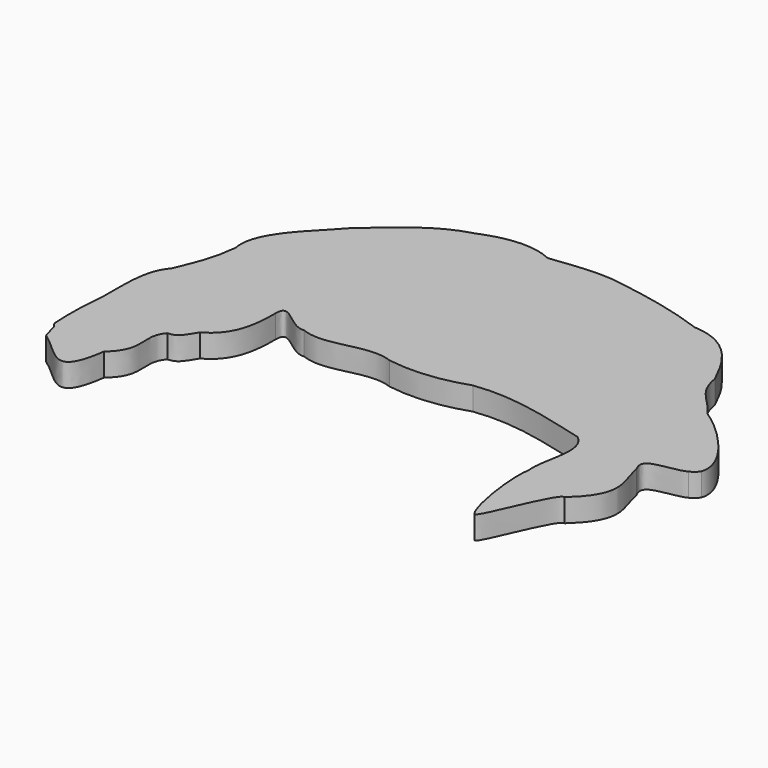
from build123d import *

# Parameters (mm, degrees)
F1_DEPTH = 2.5


with BuildPart() as f1:
    # F0 (on Top) → F1 (new body)
    with BuildSketch(Plane.XY):
        with BuildLine():
            add(Edge.make_bspline(
                [(-25.6257737843, 29.8916869719), (-25.8873034064, 27.5028125175), (-26.3476858106, 26.3349166155), (-27.2098956588, 24.2340467342)],
                knots=[0, 0, 0, 0, 0.906224542, 0.906224542, 0.906224542, 0.906224542], degree=3))
            add(Edge.make_bspline(
                [(-27.2098956588, 24.2340467342), (-19.7568631721, 31.0778006363), (-9.9904411425, 34.8972392423), (0.1697760545, 34.8972392423)],
                knots=[0.0536881033, 0.0536881033, 0.0536881033, 0.0536881033, 1, 1, 1, 1], degree=3))
            add(Edge.make_bspline(
                [(0.1697760545, 34.8972392423), (10.9064226016, 34.8972392423), (21.2033250388, 30.6321223941), (28.7952806224, 23.0401668105)],
                knots=[0, 0, 0, 0, 1, 1, 1, 1], degree=3))
            add(Edge.make_bspline(
                [(28.7952806224, 23.0401668105), (29.2036402391, 22.6318071461), (29.6023746478, 22.2156215356), (29.9913378332, 21.7919624913)],
                knots=[0, 0, 0, 0, 0.0537884623, 0.0537884623, 0.0537884623, 0.0537884623], degree=3))
            add(Edge.make_bspline(
                [(29.9913378332, 21.7919624913), (30.3332701533, 21.9612258157), (30.6193747535, 22.1863755662), (30.8054165504, 22.4991043824)],
                knots=[0.8351689985, 0.8351689985, 0.8351689985, 0.8351689985, 1, 1, 1, 1], degree=3))
            add(Edge.make_bspline(
                [(30.8054165504, 22.4991043824), (31.6957144217, 25.0845200026), (26.7139510097, 29.7791972617), (24.6549925526, 31.0400298102)],
                knots=[0, 0, 0, 0, 1, 1, 1, 1], degree=3))
            add(Edge.make_bspline(
                [(24.6549925526, 31.0400298102), (23.1179127612, 33.2059942426), (21.5435347067, 33.6748327354), (21.0984451745, 36.465856937)],
                knots=[0, 0, 0, 0, 1, 1, 1, 1], degree=3))
            add(Edge.make_bspline(
                [(21.0984451745, 36.465856937), (19.8331981529, 39.1149778628), (18.0484592424, 42.6006720177), (13.8889900701, 42.7717326263)],
                knots=[0, 0, 0, 0, 1, 1, 1, 1], degree=3))
            add(Edge.make_bspline(
                [(13.8889900701, 42.7717326263), (10.7894802938, 43.9150731637), (7.3893572276, 44.6367175954), (4.1607868433, 45.1314240668)],
                knots=[0, 0, 0, 0, 1, 1, 1, 1], degree=3))
            add(Edge.make_bspline(
                [(4.1607868433, 45.1314240668), (1.5282767132, 45.665729576), (-1.0791917665, 45.2263791247), (-3.7920543494, 44.9209612497)],
                knots=[0, 0, 0, 0, 1, 1, 1, 1], degree=3))
            add(Edge.make_bspline(
                [(-3.7920543494, 44.9209612497), (-6.2944709608, 46.0858599135), (-8.9868296064, 45.6211947336), (-11.4372380688, 44.6089132422)],
                knots=[0, 0, 0, 0, 1, 1, 1, 1], degree=3))
            add(Edge.make_bspline(
                [(-11.4372380688, 44.6089132422), (-15.0606302684, 43.646353311), (-17.6803792997, 41.0271699422), (-20.3918525515, 38.6530505605)],
                knots=[0, 0, 0, 0, 1, 1, 1, 1], degree=3))
            add(Edge.make_bspline(
                [(-20.3918525515, 38.6530505605), (-22.1616377559, 36.5296296256), (-26.3092164888, 33.3963042234), (-25.6257737843, 29.8916869719)],
                knots=[0, 0, 0, 0, 1, 1, 1, 1], degree=3))
        make_face()
        with BuildLine():
            add(Edge.make_bspline(
                [(-28.1128917952, 7.2867966011), (-25.5327577608, 5.5724959764), (-23.3754139192, 1.5391420658), (-22.4392237926, 8.0616239512)],
                knots=[0, 0, 0, 0, 1, 1, 1, 1], degree=3))
            add(Edge.make_bspline(
                [(-22.4392237926, 8.0616239512), (-19.7232837573, 10.3918867536), (-21.9086846384, 12.1959849769), (-20.3570244073, 14.0296944818)],
                knots=[0, 0, 0, 0, 1, 1, 1, 1], degree=3))
            add(Edge.make_bspline(
                [(-20.3570244073, 14.0296944818), (-19.3927683751, 14.1045889117), (-19.2338961097, 14.3421184154), (-18.2799150982, 15.8843006958)],
                knots=[0, 0, 0, 0, 1, 1, 1, 1], degree=3))
            add(Edge.make_bspline(
                [(-18.2799150982, 15.8843006958), (-15.7612059869, 17.2500228615), (-15.4655923382, 19.9714723435), (-15.4787462089, 22.579406298)],
                knots=[0, 0, 0, 0, 1, 1, 1, 1], degree=3))
            add(Edge.make_bspline(
                [(-15.4787462089, 22.579406298), (-15.4863782201, 25.0304123412), (-13.1685706331, 21.4589405155), (-11.6470474482, 21.6898141749)],
                knots=[0, 0, 0, 0, 1, 1, 1, 1], degree=3))
            add(Edge.make_bspline(
                [(-11.6470474482, 21.6898141749), (-8.6113892696, 20.4740608526), (-5.5748604317, 23.0532887629), (-2.550901183, 21.8980551263)],
                knots=[0, 0, 0, 0, 1, 1, 1, 1], degree=3))
            add(Edge.make_bspline(
                [(-2.550901183, 21.8980551263), (0.3056919961, 21.435862725), (3.1433310469, 21.7901660791), (5.8406263838, 22.7138664122)],
                knots=[0, 0, 0, 0, 1, 1, 1, 1], degree=3))
            add(Edge.make_bspline(
                [(5.8406263838, 22.7138664122), (10.1982476767, 23.3134917592), (14.4656005765, 21.9525661991), (18.6367491731, 20.8882535066)],
                knots=[0, 0, 0, 0, 1, 1, 1, 1], degree=3))
            add(Edge.make_bspline(
                [(18.6367491731, 20.8882535066), (20.8934616591, 19.2509494841), (18.9683426833, 15.8911569159), (19.2480353254, 13.5529438063)],
                knots=[0, 0, 0, 0, 1, 1, 1, 1], degree=3))
            add(Edge.make_bspline(
                [(19.2480353254, 13.5529438063), (18.8583496906, 11.2042269284), (19.8698101733, 5.08143262), (20.6839670293, 4.421158141)],
                knots=[0, 0, 0, 0, 1, 1, 1, 1], degree=3))
            add(Edge.make_bspline(
                [(20.6839670293, 4.421158141), (21.005391913, 3.4844342702), (23.8127236869, 11.82477115), (24.7163704849, 11.5650362883)],
                knots=[0, 0, 0, 0, 1, 1, 1, 1], degree=3))
            add(Edge.make_bspline(
                [(24.7163704849, 11.5650362883), (28.5821872084, 15.0265470396), (26.7026865228, 16.8994273456), (26.2481154934, 19.400803067)],
                knots=[0, 0, 0, 0, 1, 1, 1, 1], degree=3))
            add(Edge.make_bspline(
                [(26.2481154934, 19.400803067), (25.0930725774, 21.5114623664), (28.2588283498, 20.9343357116), (29.9913378332, 21.7919624913)],
                knots=[0, 0, 0, 0, 0.8351689985, 0.8351689985, 0.8351689985, 0.8351689985], degree=3))
            add(Edge.make_bspline(
                [(28.7952806224, 23.0401668105), (29.2036402391, 22.6318071461), (29.6023746478, 22.2156215356), (29.9913378332, 21.7919624913)],
                knots=[0, 0, 0, 0, 0.0537884623, 0.0537884623, 0.0537884623, 0.0537884623], degree=3))
            add(Edge.make_bspline(
                [(0.1697760545, 34.8972392423), (10.9064226016, 34.8972392423), (21.2033250388, 30.6321223941), (28.7952806224, 23.0401668105)],
                knots=[0, 0, 0, 0, 1, 1, 1, 1], degree=3))
            add(Edge.make_bspline(
                [(-27.2098956588, 24.2340467342), (-19.7568631721, 31.0778006363), (-9.9904411425, 34.8972392423), (0.1697760545, 34.8972392423)],
                knots=[0.0536881033, 0.0536881033, 0.0536881033, 0.0536881033, 1, 1, 1, 1], degree=3))
            add(Edge.make_bspline(
                [(-27.2098956588, 24.2340467342), (-27.2991165082, 24.0166502434), (-27.3926401099, 23.7892635044), (-27.4906913704, 23.5494998258)],
                knots=[0.906224542, 0.906224542, 0.906224542, 0.906224542, 1, 1, 1, 1], degree=3))
            add(Edge.make_bspline(
                [(-27.4906913704, 23.5494998258), (-29.1920252009, 21.6413285608), (-28.6991380704, 18.1749981518), (-28.8091487955, 15.8573740948)],
                knots=[0, 0, 0, 0, 1, 1, 1, 1], degree=3))
            add(Edge.make_bspline(
                [(-28.8091487955, 15.8573740948), (-29.0146642819, 13.7320690959), (-29.1121337897, 11.6247296457), (-28.9618643827, 9.4762564212)],
                knots=[0, 0, 0, 0, 1, 1, 1, 1], degree=3))
            add(Edge.make_bspline(
                [(-28.9618643827, 9.4762564212), (-28.2470345, 8.4729980453), (-28.7688120912, 9.2274118933), (-28.1128917952, 7.2867966011)],
                knots=[0, 0, 0, 0, 1, 1, 1, 1], degree=3))
        make_face()
    extrude(amount=F1_DEPTH)


solid = f1.part
